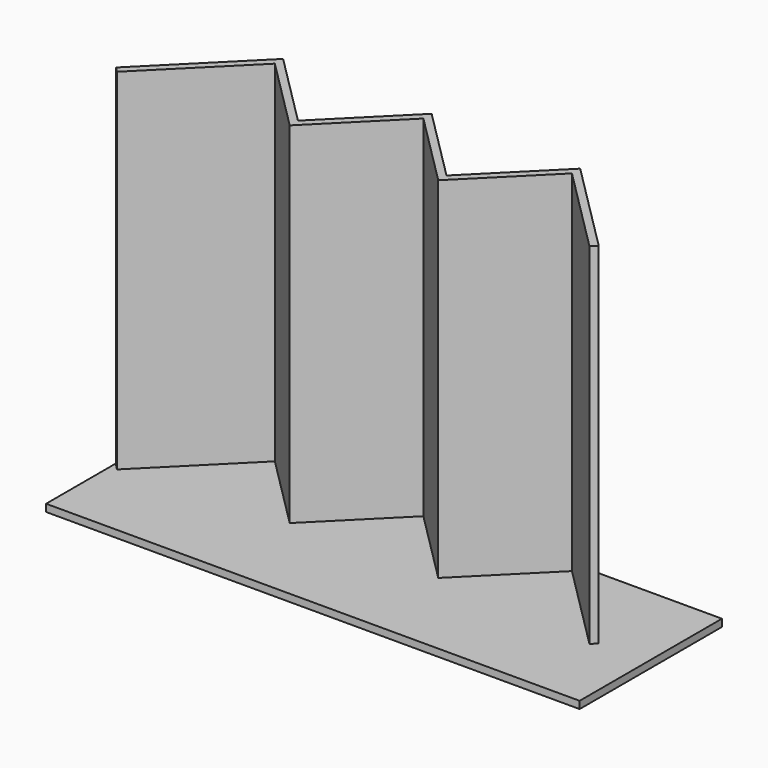
from build123d import *

# Parameters (mm, degrees)
F0_W     = 1828.8
F0_H     = 609.6
F1_DEPTH = 25
F3_DEPTH = 1200


with BuildPart() as f1:
    # F0 (on Top) → F1 (new body)
    with BuildSketch(Plane.XY):
        Rectangle(F0_W, F0_H)
    extrude(amount=F1_DEPTH)


with BuildPart() as f3:
    # F2 (on face) → F3 (new body)
    with BuildSketch(Plane.XY.offset(25)):
        Polygon((-335.095461, 50.241559), (-589.653902, 304.8), (-907.851953, -13.398052), (-890.174284, -31.075721), (-589.653902, 269.444661), (-335.095461, 14.88622), (-80.537019, 269.444661), (174.021422, 14.88622), (428.579863, 269.444661), (729.100245, -31.075721), (746.777915, -13.398052), (428.579863, 304.8), (174.021422, 50.241559), (-80.537019, 304.8), align=None)
    extrude(amount=F3_DEPTH)


solid = Compound([f1.part, f3.part])
